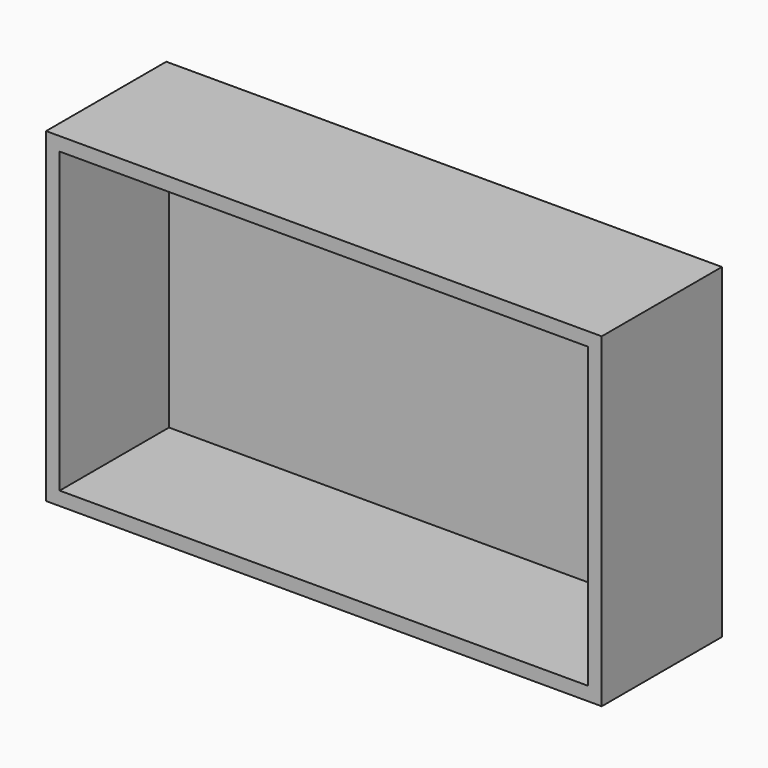
from build123d import *

# Parameters (mm, degrees)
F0_W     = 122.5050538778
F0_H     = 71.8133747578
F1_DEPTH = 33.1241749227
F2_T     = -3
F3_T     = -0.1


with BuildPart() as f1:
    # F0 (on Front) → F1 (new body)
    with BuildSketch(Plane.XZ):
        Rectangle(F0_W, F0_H)
    extrude(amount=F1_DEPTH)

    # F2
    f2_openings = [f1.faces().sort_by_distance(p)[0] for p in [
        (0, -33.124175, 0),
    ]]
    offset(amount=F2_T, openings=f2_openings)

    # F3 (hollow: no face is removed)
    offset(amount=F3_T, kind=Kind.INTERSECTION, mode=Mode.SUBTRACT)


solid = f1.part
